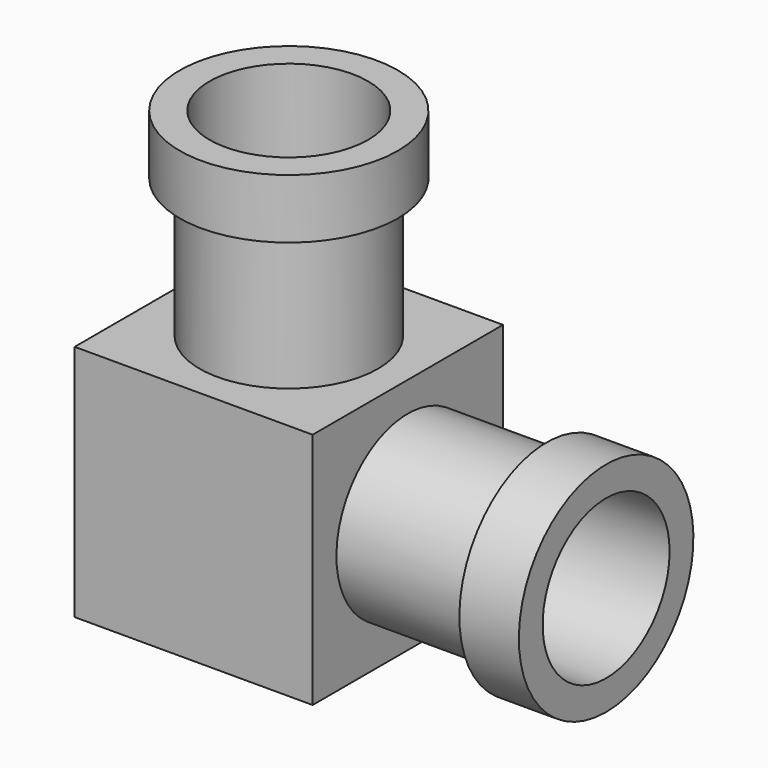
from build123d import *

# Parameters (mm, degrees)
F0_W      = 60
F0_H      = 60
F1_DEPTH  = 30
F2_R      = 22.5
F3_DEPTH  = 35
F4_R      = 27.5
F5_DEPTH  = 15
F8_COUNT  = 2
F8_ANGLE  = 90
F6_R      = 20
F9_DEPTH  = 100
F10_R     = 20
F11_DEPTH = 100


with BuildPart() as f1:
    # F0 (on Top) → F1 (new body, symmetric)
    with BuildSketch(Plane.XY):
        Rectangle(F0_W, F0_H)
    extrude(amount=F1_DEPTH, both=True)


with BuildPart() as f3:
    # F2 (on face) → F3 (new body)
    with BuildSketch(Plane.XY.offset(30)):
        Circle(F2_R)
    extrude(amount=F3_DEPTH)

    # F4 (on face) → F5 (join)
    with BuildSketch(Plane.XY.offset(65)):
        Circle(F4_R)
    extrude(amount=F5_DEPTH)


with BuildPart() as f8_1:
    # F8: instance of F3
    add(f3.part.rotate(Axis((0, 15, 0), (0, 1, 0)), 1 * F8_ANGLE / (F8_COUNT - 1)))


with BuildPart() as f9_tool:
    # F6 (on face) → F9 (new body)
    with BuildSketch(Plane.XY.offset(80)):
        Circle(F6_R)
    extrude(amount=-F9_DEPTH)


with BuildPart() as f1_1:
    add(f1.part)

    # F9: cut by f9_tool
    add(f9_tool.part, mode=Mode.SUBTRACT)


with BuildPart() as f3_1:
    add(f3.part)

    # F9: cut by f9_tool
    add(f9_tool.part, mode=Mode.SUBTRACT)


with BuildPart() as f11_tool:
    # F10 (on face) → F11 (new body)
    with BuildSketch(Plane.YZ.offset(80)):
        Circle(F10_R)
    extrude(amount=-F11_DEPTH)


with BuildPart() as f1_2:
    add(f1_1.part)

    # F11: cut by f11_tool
    add(f11_tool.part, mode=Mode.SUBTRACT)


with BuildPart() as f8_1_1:
    add(f8_1.part)

    # F11: cut by f11_tool
    add(f11_tool.part, mode=Mode.SUBTRACT)


solid = Compound([f3_1.part, f1_2.part, f8_1_1.part])
